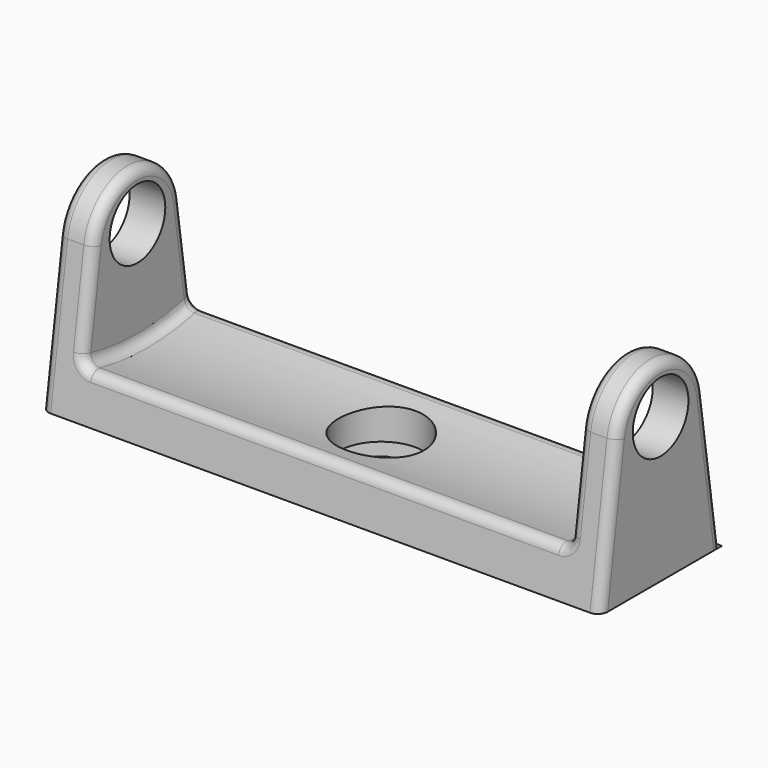
from build123d import *

# Parameters (mm, degrees)
SKETCH_W        = 114.642242
SKETCH_H        = 31.44759
PAD_DEPTH       = 40
POCKET_DEPTH    = 114.643242
SKETCH002_R     = 7.136669
POCKET001_DEPTH = 114.643242
SKETCH003_R     = 55.105675
POCKET002_DEPTH = 50
FILLET_R        = 2
SKETCH004_R     = 8.784385
POCKET003_DEPTH = 7
SKETCH005_R     = 3.710969
POCKET004_DEPTH = 2.001


with BuildPart() as part:
    # Sketch → Pad (new body)
    with BuildSketch(Plane.XY):
        Rectangle(SKETCH_W, SKETCH_H)
    extrude(amount=PAD_DEPTH)

    # Sketch001 (on Face3 of Pad) → Pocket (cut, through all)
    with BuildSketch(Plane.YZ.offset(57.321121)):
        with BuildLine():
            ThreePointArc((11.264383, 29.831773), (-0.014439, 39.554811), (-11.268565, 29.8032))
            Line((-11.268565, 29.8032), (-15.592646, 0))
            Line((-15.592646, 0), (-22.878534, 0))
            Line((-22.878534, 0), (-19.217968, 45.174706))
            Line((-19.217968, 45.174706), (19.051588, 45.174706))
            Line((19.051588, 45.174706), (24.010837, 0))
            Line((15.669825, 0.000428), (24.010837, 0))
            Line((11.264383, 29.831773), (15.669825, 0.000428))
        make_face()
    extrude(amount=-POCKET_DEPTH, mode=Mode.SUBTRACT)

    # Sketch002 (on Face8 of Pocket) → Pocket001 (cut, through all)
    with BuildSketch(Plane.YZ.offset(57.321121)):
        with Locations((0, 29.72154)):
            Circle(SKETCH002_R)
    extrude(amount=-POCKET001_DEPTH, mode=Mode.SUBTRACT)

    # Sketch003 → Pocket002 (cut, symmetric)
    with BuildSketch(Plane.YZ):
        with Locations((0, 62.972816)):
            Circle(SKETCH003_R)
    extrude(amount=POCKET002_DEPTH, both=True, mode=Mode.SUBTRACT)

    # Fillet
    fillet_edges = [part.edges().sort_by_distance(p)[0] for p in [
        (57.321121, -13.430606, 14.9016),
        (57.321121, -0.014439, 39.554811),
        (57.321121, 13.467104, 14.916101),
        (-57.321121, -13.430606, 14.9016),
        (-57.321121, -0.014439, 39.554811),
        (-57.321121, 13.467104, 14.916101),
        (50, 0.025916, 7.867147),
        (0, -14.181911, 9.72332),
        (0, 14.231991, 9.736683),
        (50, -12.725238, 19.76326),
        (50, -0.014439, 39.554811),
        (50, 12.748187, 19.784228),
        (-50, 12.748187, 19.784228),
        (-50, -0.014439, 39.554811),
        (-50, -12.725238, 19.76326),
        (-50, 0.025916, 7.867147),
    ]]
    fillet(fillet_edges, radius=FILLET_R)

    # Sketch004 → Pocket003 (cut)
    with BuildSketch(Plane.XY.offset(9)):
        Circle(SKETCH004_R)
    extrude(amount=-POCKET003_DEPTH, mode=Mode.SUBTRACT)

    # Sketch005 (on Face36 of Pocket003) → Pocket004 (cut, through all)
    with BuildSketch(Plane.XY.offset(2)):
        Circle(SKETCH005_R)
    extrude(amount=-POCKET004_DEPTH, mode=Mode.SUBTRACT)


solid = part.part
